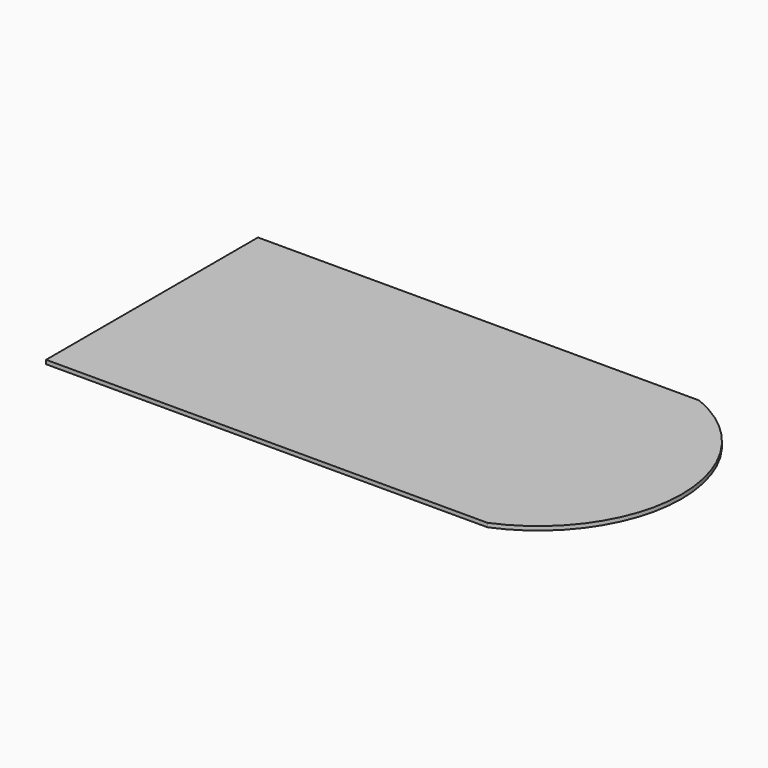
from build123d import *

# Parameters (mm, degrees)
F0_W     = 50
F0_H     = 30
F1_DEPTH = 0.45


with BuildPart() as f1:
    # F0 (on Top) → F1 (new body)
    with BuildSketch(Plane.XY):
        with Locations((25, 15)):
            Rectangle(F0_W, F0_H)
        with BuildLine():
            Line((50, 30), (50, 0))
            ThreePointArc((50, 0), (60, 15), (50, 30))
        make_face()
    extrude(amount=F1_DEPTH)


with BuildPart() as f2_1:
    # F2: copy of F1
    add(f1.part)


solid = f1.part
